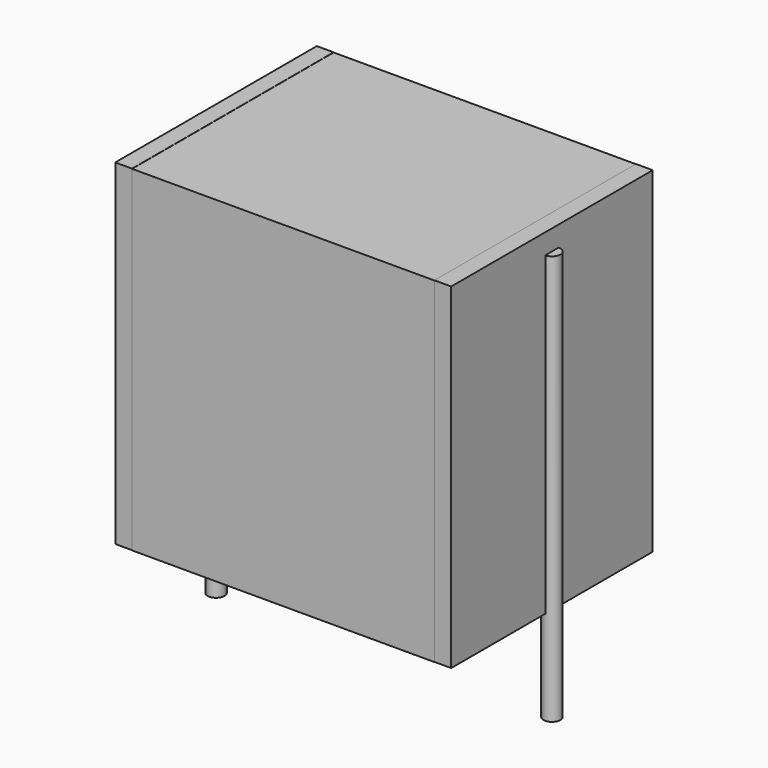
from build123d import *

# Parameters (mm, degrees)
SKETCH_W          = 9
SKETCH_H          = 7.5
PAD_DEPTH         = 10
SKETCH001_R       = 0.25
PAD001_DEPTH      = 9
PAD001_DEPTH_BACK = 3.2
SKETCH002_W       = 0.5
SKETCH002_H       = 7.5
PAD002_DEPTH      = 10


with BuildPart() as pad:
    # Sketch → Pad (new body)
    with BuildSketch(Plane.XY.offset(0.1)):
        with Locations((5, 0)):
            Rectangle(SKETCH_W, SKETCH_H)
    extrude(amount=PAD_DEPTH)


with BuildPart() as pad001:
    # Sketch001 → Pad001 (new body, two sides)
    with BuildSketch(Plane.XY.offset(0.5)) as pad001_sk:
        Circle(SKETCH001_R)
        with Locations((10, 0)):
            Circle(SKETCH001_R)
    extrude(amount=PAD001_DEPTH)
    extrude(pad001_sk.sketch, amount=-PAD001_DEPTH_BACK)


with BuildPart() as pad002:
    # Sketch002 → Pad002 (new body)
    with BuildSketch(Plane.XY.offset(0.105)):
        with Locations((0.25, 0)):
            Rectangle(SKETCH002_W, SKETCH002_H)
        with Locations((9.75, 0)):
            Rectangle(SKETCH002_W, SKETCH002_H)
    extrude(amount=PAD002_DEPTH)


solid = Compound([pad.part, pad001.part, pad002.part])
